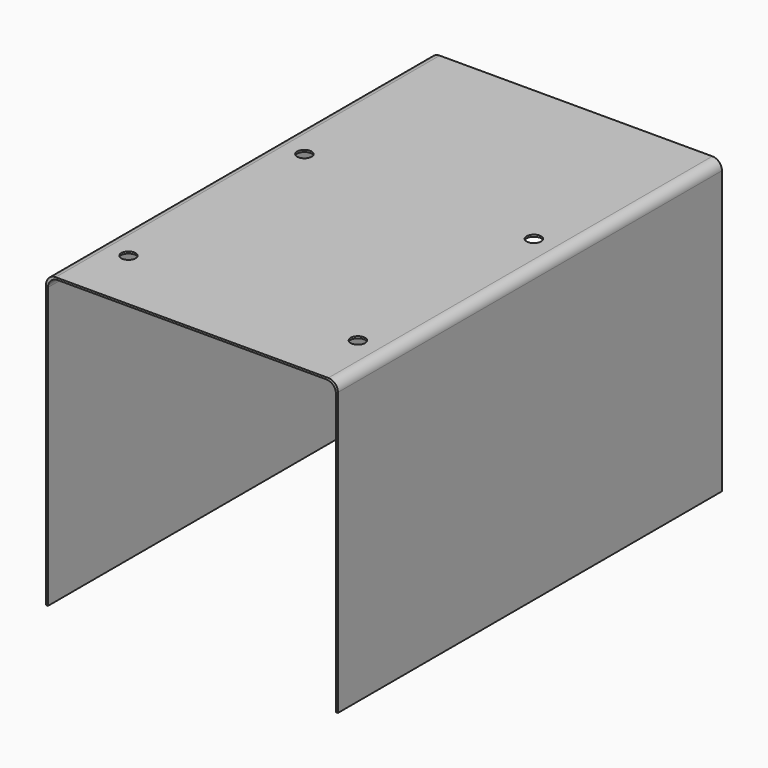
from build123d import *

# Parameters (mm, degrees)
F1_DEPTH = 125
F2_T     = -1
F4_D     = 7.5
F5_R     = 5


with BuildPart() as f1:
    # F0 (on Front) → F1 (new body, symmetric)
    with BuildSketch(Plane.XZ):
        Polygon((76, 76), (0, 76), (-76, 76), (-76, 0), (-76, -76), (0, -76), (76, -76), (76, 0), align=None)
    extrude(amount=F1_DEPTH, both=True)

    # F2
    f2_openings = [f1.faces().sort_by_distance(p)[0] for p in [
        (0, -125, 0),
        (0, 0, -76),
        (0, 125, 0),
    ]]
    offset(amount=F2_T, openings=f2_openings)

    # F4 (through all)
    with Locations(Plane.XY.offset(76)):
        with Locations((-59.75, 22.88), (59.75, 22.88), (59.75, -91.67), (-59.75, -91.67)):
            Hole(F4_D / 2)

    # F5
    f5_edges = [f1.edges().sort_by_distance(p)[0] for p in [
        (-75, 0, 75),
        (75, 0, 75),
        (76, 0, 76),
        (-76, 0, 76),
    ]]
    fillet(f5_edges, radius=F5_R)


solid = f1.part
